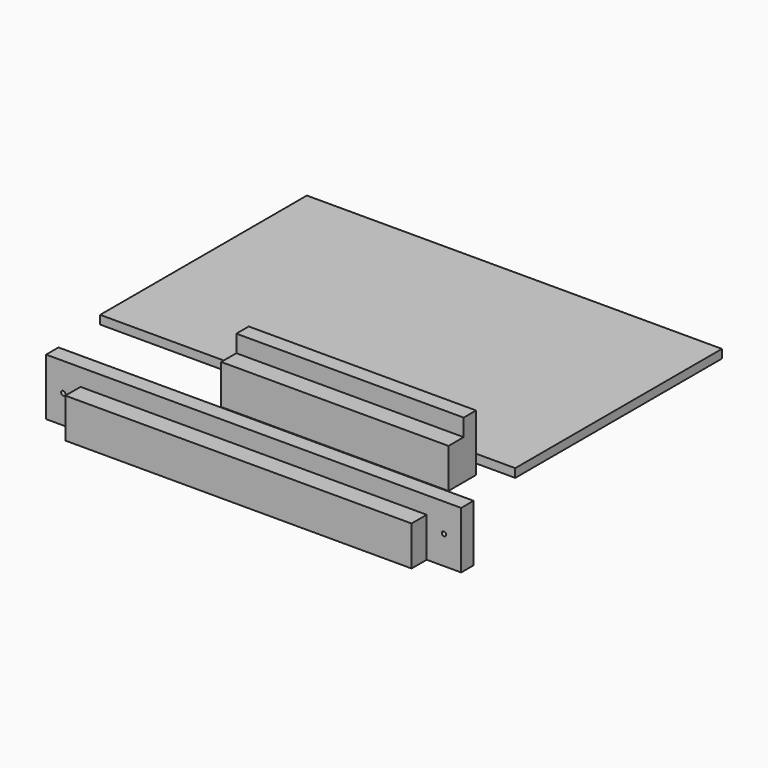
from build123d import *

# Parameters (mm, degrees)
F0_W      = 241
F0_H      = 150
F1_DEPTH  = 5
F3_DEPTH  = 120.5
F4_W      = 20
F4_H      = 11
F5_DEPTH  = 23.001
F7_DEPTH  = 66
F9_R      = 3
F10_DEPTH = 2
F11_R     = 1.25
F12_DEPTH = 18.001


with BuildPart() as f1:
    # F0 (on Top) → F1 (new body)
    with BuildSketch(Plane.XY):
        with Locations((-38.844081, 38.393882)):
            Rectangle(F0_W, F0_H)
        with Locations((-38.844081, 38.393882)):
            Rectangle(F0_W, F0_H)
    extrude(amount=F1_DEPTH)


with BuildPart() as f3:
    # F2 (on Right) → F3 (new body)
    with BuildSketch(Plane.YZ):
        Polygon((-135.410857, 0), (-115.410857, 0), (-115.410857, 33), (-124.410857, 33), (-124.410857, 23), (-135.410857, 23), align=None)
    extrude(amount=F3_DEPTH)

    # F4 (on face) → F5 (cut, through all)
    with BuildSketch(Plane.XY.offset(23)):
        with Locations((110.5, -129.910857)):
            Rectangle(F4_W, F4_H)
    extrude(amount=-F5_DEPTH, mode=Mode.SUBTRACT)

    # F9 (on face) → F10 (cut)
    with BuildSketch(Plane(origin=(0, -115.410857, 0), x_dir=(-1, 0, 0), z_dir=(0, 1, 0))):
        with Locations((-110.5, 16.5)):
            Circle(F9_R)
    extrude(amount=-F10_DEPTH, mode=Mode.SUBTRACT)

    # F11 (on face) → F12 (cut, through all)
    with BuildSketch(Plane(origin=(0, -117.410857, 0), x_dir=(-1, 0, 0), z_dir=(0, 1, 0))):
        with Locations((-110.5, 16.5)):
            Circle(F11_R)
    extrude(amount=-F12_DEPTH, mode=Mode.SUBTRACT)

    # F13: F3 across plane


with BuildPart() as f7:
    # F6 (on Right) → F7 (new body)
    with BuildSketch(Plane.YZ):
        Polygon((-65.4565, 0), (-45.4565, 0), (-45.4565, 33), (-54.4565, 33), (-54.4565, 23), (-65.4565, 23), align=None)
    extrude(amount=F7_DEPTH)

    # F8: F7 across plane


with BuildPart() as f7_1:
    add(f7.part)
    add(f7.part.mirror(Plane.YZ))


with BuildPart() as f3_1:
    add(f3.part)
    add(f3.part.mirror(Plane.YZ))


solid = Compound([f1.part, f7_1.part, f3_1.part])
